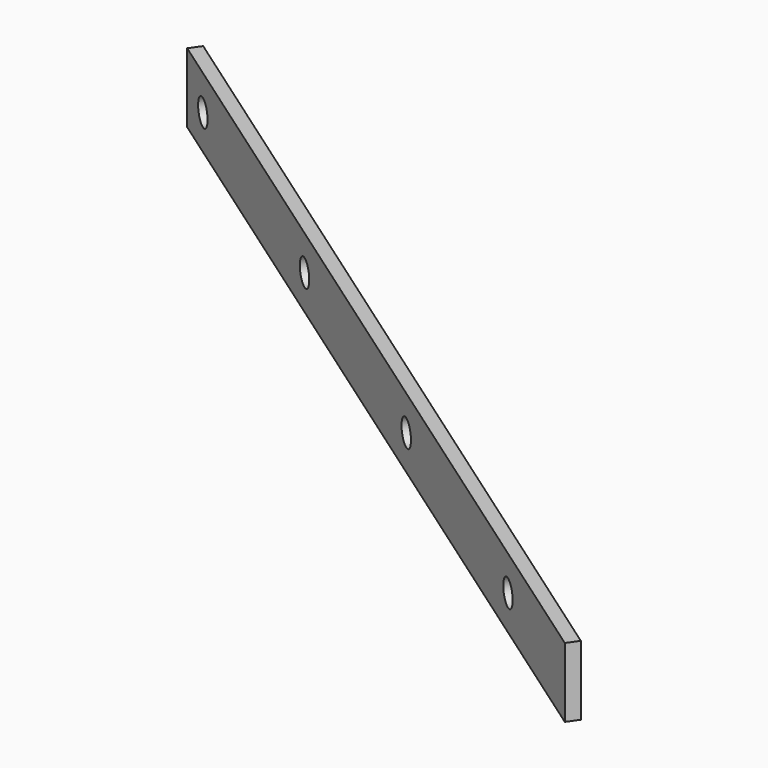
from build123d import *

# Parameters (mm, degrees)
PAD006_DEPTH           = 32
SKETCH014_R            = 6
POCKET004_DEPTH        = 232.77922
LINEARPATTERN002_COUNT = 4
LINEARPATTERN002_PITCH = 130


with BuildPart() as part:
    # Sketch013 → Pad006 (new body)
    with BuildSketch(Plane.XY):
        Polygon((-385.11428, 291.5), (10.26148, 14.654912), (6.820021, 9.74), (-388.555739, 286.585088), align=None)
    extrude(amount=PAD006_DEPTH)

    # Sketch014 (on Face3 of Pad006) → Pocket004 (cut, through all)
    with BuildSketch(Plane(origin=(6.820021, 9.74, 0), x_dir=(0.819152, -0.573576, 0), z_dir=(-0.573576, -0.819152, 0))):
        with Locations((-462.664681, 16)):
            Circle(SKETCH014_R)
    pocket004 = extrude(amount=-POCKET004_DEPTH, mode=Mode.SUBTRACT)

    # LinearPattern002: Pocket004 ×4
    with Locations(*[Vector(0.819152, -0.573576, 0) * (i * LINEARPATTERN002_PITCH) for i in range(1, LINEARPATTERN002_COUNT)]):
        add(pocket004, mode=Mode.SUBTRACT)


with BuildPart() as part_1:
    # Body005 placement: moved
    add(part.part.moved(Location((0, 0, 9))))


solid = part_1.part
